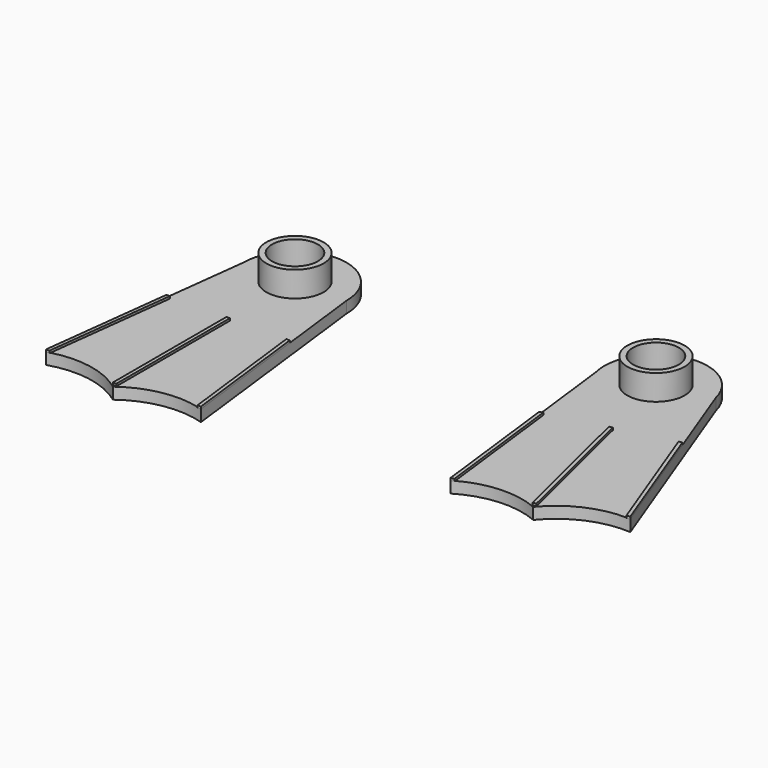
from build123d import *

# Parameters (mm, degrees)
F0_R     = 2.5
F1_DEPTH = 2.21
F3_DEPTH = 1
F4_R     = 2
F5_DEPTH = 25
F7_DEPTH = 25
F8_W     = 0.3
F8_H     = 12.378456
F9_DEPTH = 0.2


with BuildPart() as f1:
    # F0 (on Top) → F1 (new body)
    with BuildSketch(Plane.XY):
        Circle(F0_R)
    extrude(amount=F1_DEPTH)

    # F2 (on face) → F3 (join)
    with BuildSketch(Plane(origin=(0, 0, 0), x_dir=(1, 0, 0), z_dir=(0, 0, -1))):
        with BuildLine():
            ThreePointArc((-4.5, 0), (0, -4.5), (4.5, 0))
            ThreePointArc((4.5, 0), (0, 4.5), (-4.5, 0))
        make_face()
        with BuildLine():
            ThreePointArc((-4.5, 0), (0, 4.5), (4.5, 0))
            Line((4.5, 0), (6.895295, 19.856046))
            Line((6.895295, 19.856046), (-6.895295, 19.856046))
            Line((-6.895295, 19.856046), (-4.5, 0))
        make_face()
    extrude(amount=F3_DEPTH)

    # F4 (on face) → F5 (cut)
    with BuildSketch(Plane.XY.offset(2.21)):
        Circle(F4_R)
    extrude(amount=-F5_DEPTH, mode=Mode.SUBTRACT)

    # F6 (on face) → F7 (cut)
    with BuildSketch(Plane(origin=(0, 0, 0), x_dir=(1, 0, 0), z_dir=(0, 0, -1))):
        with BuildLine():
            ThreePointArc((0, 31.853238), (2.206856, 29.207698), (2.998129, 25.854642))
            ThreePointArc((2.998129, 25.854642), (2.206856, 22.501586), (0, 19.856046))
            ThreePointArc((0, 19.856046), (7.854927, 19.145915), (12.001871, 25.854642))
            ThreePointArc((12.001871, 25.854642), (7.854927, 32.563369), (0, 31.853238))
        make_face()
        with BuildLine():
            ThreePointArc((0, 19.856046), (-2.998129, 25.854642), (0, 31.853238))
            ThreePointArc((0, 31.853238), (-12.001871, 25.854642), (0, 19.856046))
        make_face()
    extrude(amount=F7_DEPTH, mode=Mode.SUBTRACT)

    # F8 (on face) → F9 (join)
    with BuildSketch(Plane(origin=(0, 0, 0), x_dir=(1, 0, 0), z_dir=(0, 0, -1))):
        Polygon((-6.756007, 18.7014), (-5.37956, 7.2912), (-5.07956, 7.2912), (-6.456007, 18.7014), align=None)
        Polygon((5.07956, 7.2912), (5.37956, 7.2912), (6.756007, 18.7014), (6.456007, 18.7014), align=None)
        with Locations((0, 13.480428)):
            Rectangle(F8_W, F8_H)
    extrude(amount=-F9_DEPTH)


with BuildPart() as f11_1:
    # F11: instance of F1
    add(f1.part.mirror(Plane(origin=(15.603854, -8.549527, -0.434747), x_dir=(-0.119765, 0.992802, 0), z_dir=(0.992802, 0.119765, 0))))


solid = Compound([f1.part, f11_1.part])
